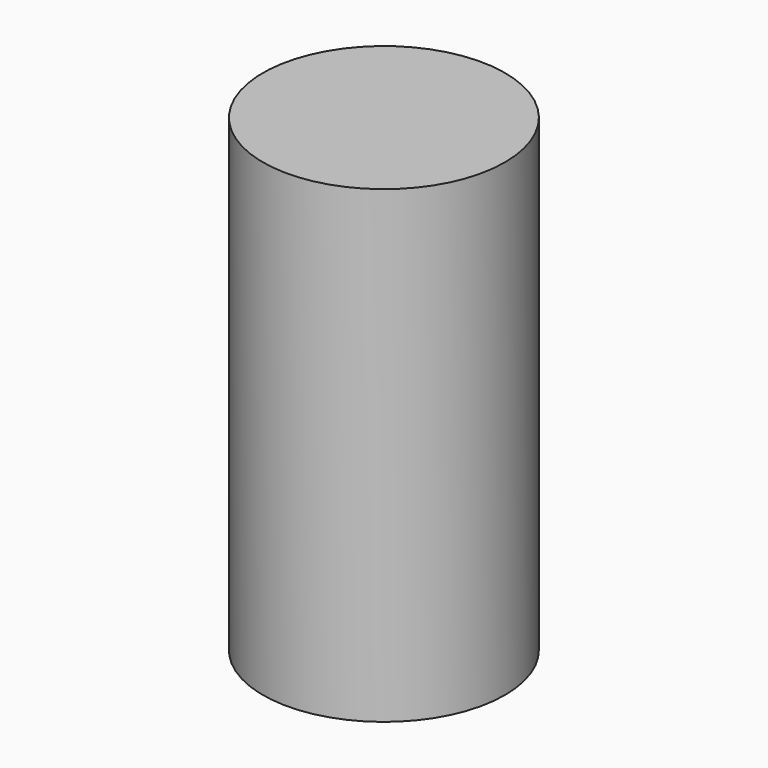
from build123d import *

# Parameters (mm, degrees)
F3_R        = 16
F4_DEPTH    = 60
F2_R        = 6
F0_R        = 13.5
F4_FACE_R   = 16
F4_FACE_R_2 = 6
F6_DEPTH    = 2


with BuildPart() as f4:
    # F3 (on Top) → F4 (new body)
    with BuildSketch(Plane.XY):
        Circle(F3_R)
    extrude(amount=F4_DEPTH)

    # F2 (on offset) → F5 section 0
    with BuildSketch(Plane.XY.offset(60)):
        Circle(F2_R)
    # F0 (on Top) → F5 section 1
    with BuildSketch(Plane.XY):
        Circle(F0_R)
    loft(mode=Mode.SUBTRACT)

    # F2 (on offset) + F4_face (on face) → F6 (join)
    with BuildSketch(Plane.XY.offset(60)):
        Circle(F2_R)
    with BuildSketch(Plane.XY.offset(60)):
        Circle(F4_FACE_R)
        Circle(F4_FACE_R_2, mode=Mode.SUBTRACT)
    extrude(amount=F6_DEPTH)


solid = f4.part
